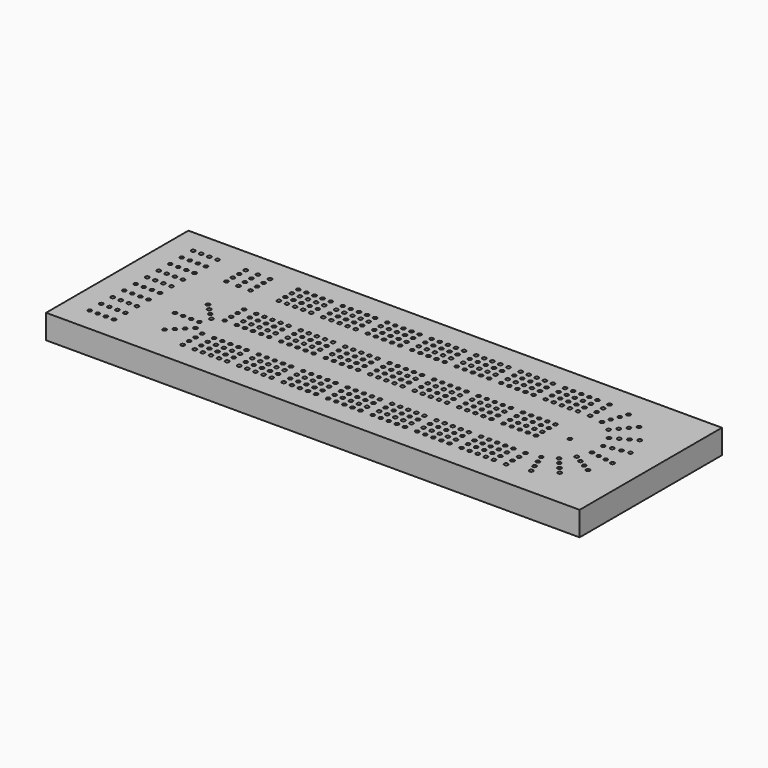
from build123d import *

# Parameters (mm, degrees)
F0_W     = 419.1
F0_H     = 139.7
F1_DEPTH = 19.05
F2_R     = 1.488281
F3_DEPTH = 12.7


with BuildPart() as f1:
    # F0 (on Top) → F1 (new body)
    with BuildSketch(Plane.XY):
        with Locations((209.55, 69.85)):
            Rectangle(F0_W, F0_H)
    extrude(amount=F1_DEPTH)

    # F2 (on face) → F3 (cut)
    with BuildSketch(Plane.XY.offset(19.05)):
        with BuildLine():
            ThreePointArc((20.538281, 120.65), (20.102374, 121.702374), (19.05, 122.138281))
            Line((19.05, 122.138281), (19.05, 120.65))
            Line((19.05, 120.65), (17.561719, 120.65))
            ThreePointArc((17.561719, 120.65), (19.05, 119.161719), (20.538281, 120.65))
        make_face()
        with BuildLine():
            Line((19.05, 120.65), (19.05, 122.138281))
            ThreePointArc((19.05, 122.138281), (17.997626, 121.702374), (17.561719, 120.65))
            Line((17.561719, 120.65), (19.05, 120.65))
        make_face()
        with Locations((19.05, 109.361111)):
            Circle(F2_R)
        with Locations((19.05, 98.072222)):
            Circle(F2_R)
        with Locations((19.05, 86.783333)):
            Circle(F2_R)
        with Locations((19.05, 75.494444)):
            Circle(F2_R)
        with Locations((19.05, 64.205556)):
            Circle(F2_R)
        with Locations((19.05, 52.916667)):
            Circle(F2_R)
        with Locations((19.05, 41.627778)):
            Circle(F2_R)
        with Locations((19.05, 30.338889)):
            Circle(F2_R)
        with Locations((19.05, 19.05)):
            Circle(F2_R)
        with Locations((25.4, 120.65)):
            Circle(F2_R)
        with Locations((25.4, 109.361111)):
            Circle(F2_R)
        with Locations((25.4, 98.072222)):
            Circle(F2_R)
        with Locations((25.4, 86.783333)):
            Circle(F2_R)
        with Locations((25.4, 75.494444)):
            Circle(F2_R)
        with Locations((25.4, 64.205556)):
            Circle(F2_R)
        with Locations((25.4, 52.916667)):
            Circle(F2_R)
        with Locations((25.4, 41.627778)):
            Circle(F2_R)
        with Locations((25.4, 30.338889)):
            Circle(F2_R)
        with Locations((25.4, 19.05)):
            Circle(F2_R)
        with Locations((31.75, 120.65)):
            Circle(F2_R)
        with Locations((31.75, 109.361111)):
            Circle(F2_R)
        with Locations((31.75, 98.072222)):
            Circle(F2_R)
        with Locations((31.75, 86.783333)):
            Circle(F2_R)
        with Locations((31.75, 75.494444)):
            Circle(F2_R)
        with Locations((31.75, 64.205556)):
            Circle(F2_R)
        with Locations((31.75, 52.916667)):
            Circle(F2_R)
        with Locations((31.75, 41.627778)):
            Circle(F2_R)
        with Locations((31.75, 30.338889)):
            Circle(F2_R)
        with Locations((31.75, 19.05)):
            Circle(F2_R)
        with Locations((38.1, 120.65)):
            Circle(F2_R)
        with Locations((38.1, 109.361111)):
            Circle(F2_R)
        with Locations((38.1, 98.072222)):
            Circle(F2_R)
        with Locations((38.1, 86.783333)):
            Circle(F2_R)
        with Locations((38.1, 75.494444)):
            Circle(F2_R)
        with Locations((38.1, 64.205556)):
            Circle(F2_R)
        with Locations((38.1, 52.916667)):
            Circle(F2_R)
        with Locations((38.1, 41.627778)):
            Circle(F2_R)
        with Locations((38.1, 30.338889)):
            Circle(F2_R)
        with Locations((38.1, 19.05)):
            Circle(F2_R)
        with Locations((60.325, 120.65)):
            Circle(F2_R)
        with Locations((60.325, 114.3)):
            Circle(F2_R)
        with Locations((60.325, 107.95)):
            Circle(F2_R)
        with Locations((60.325, 101.6)):
            Circle(F2_R)
        with Locations((69.85, 120.65)):
            Circle(F2_R)
        with Locations((69.85, 114.3)):
            Circle(F2_R)
        with Locations((69.85, 107.95)):
            Circle(F2_R)
        with Locations((69.85, 101.6)):
            Circle(F2_R)
        with Locations((79.375, 120.65)):
            Circle(F2_R)
        with Locations((79.375, 114.3)):
            Circle(F2_R)
        with Locations((79.375, 107.95)):
            Circle(F2_R)
        with Locations((79.375, 101.6)):
            Circle(F2_R)
        with Locations((101.6, 120.65)):
            Circle(F2_R)
        with Locations((101.6, 114.3)):
            Circle(F2_R)
        with Locations((101.6, 107.95)):
            Circle(F2_R)
        with Locations((101.6, 101.6)):
            Circle(F2_R)
        with Locations((107.95, 120.65)):
            Circle(F2_R)
        with Locations((107.95, 114.3)):
            Circle(F2_R)
        with Locations((107.95, 107.95)):
            Circle(F2_R)
        with Locations((107.95, 101.6)):
            Circle(F2_R)
        with Locations((114.3, 120.65)):
            Circle(F2_R)
        with Locations((114.3, 114.3)):
            Circle(F2_R)
        with Locations((114.3, 107.95)):
            Circle(F2_R)
        with Locations((114.3, 101.6)):
            Circle(F2_R)
        with Locations((120.65, 120.65)):
            Circle(F2_R)
        with Locations((120.65, 114.3)):
            Circle(F2_R)
        with Locations((120.65, 107.95)):
            Circle(F2_R)
        with Locations((120.65, 101.6)):
            Circle(F2_R)
        with Locations((127, 120.65)):
            Circle(F2_R)
        with Locations((127, 114.3)):
            Circle(F2_R)
        with Locations((127, 107.95)):
            Circle(F2_R)
        with Locations((127, 101.6)):
            Circle(F2_R)
        with Locations((149.225, 114.3)):
            Circle(F2_R)
        with Locations((136.525, 107.95)):
            Circle(F2_R)
        with Locations((161.925, 107.95)):
            Circle(F2_R)
        with Locations((149.225, 120.65)):
            Circle(F2_R)
        with Locations((161.925, 114.3)):
            Circle(F2_R)
        with Locations((161.925, 120.65)):
            Circle(F2_R)
        with Locations((142.875, 101.6)):
            Circle(F2_R)
        with Locations((155.575, 107.95)):
            Circle(F2_R)
        with Locations((142.875, 107.95)):
            Circle(F2_R)
        with Locations((155.575, 101.6)):
            Circle(F2_R)
        with Locations((155.575, 114.3)):
            Circle(F2_R)
        with Locations((149.225, 107.95)):
            Circle(F2_R)
        with Locations((149.225, 101.6)):
            Circle(F2_R)
        with Locations((161.925, 101.6)):
            Circle(F2_R)
        with Locations((136.525, 101.6)):
            Circle(F2_R)
        with Locations((155.575, 120.65)):
            Circle(F2_R)
        with Locations((142.875, 114.3)):
            Circle(F2_R)
        with Locations((136.525, 114.3)):
            Circle(F2_R)
        with Locations((142.875, 120.65)):
            Circle(F2_R)
        with Locations((136.525, 120.65)):
            Circle(F2_R)
        with Locations((184.15, 114.3)):
            Circle(F2_R)
        with Locations((171.45, 107.95)):
            Circle(F2_R)
        with Locations((196.85, 107.95)):
            Circle(F2_R)
        with Locations((184.15, 120.65)):
            Circle(F2_R)
        with Locations((196.85, 114.3)):
            Circle(F2_R)
        with Locations((196.85, 120.65)):
            Circle(F2_R)
        with Locations((177.8, 101.6)):
            Circle(F2_R)
        with Locations((190.5, 107.95)):
            Circle(F2_R)
        with Locations((177.8, 107.95)):
            Circle(F2_R)
        with Locations((190.5, 101.6)):
            Circle(F2_R)
        with Locations((190.5, 114.3)):
            Circle(F2_R)
        with Locations((184.15, 107.95)):
            Circle(F2_R)
        with Locations((184.15, 101.6)):
            Circle(F2_R)
        with Locations((196.85, 101.6)):
            Circle(F2_R)
        with Locations((171.45, 101.6)):
            Circle(F2_R)
        with Locations((190.5, 120.65)):
            Circle(F2_R)
        with Locations((177.8, 114.3)):
            Circle(F2_R)
        with Locations((171.45, 114.3)):
            Circle(F2_R)
        with Locations((177.8, 120.65)):
            Circle(F2_R)
        with Locations((171.45, 120.65)):
            Circle(F2_R)
        with Locations((219.075, 114.3)):
            Circle(F2_R)
        with Locations((206.375, 107.95)):
            Circle(F2_R)
        with Locations((231.775, 107.95)):
            Circle(F2_R)
        with Locations((219.075, 120.65)):
            Circle(F2_R)
        with Locations((231.775, 114.3)):
            Circle(F2_R)
        with Locations((231.775, 120.65)):
            Circle(F2_R)
        with Locations((212.725, 101.6)):
            Circle(F2_R)
        with Locations((225.425, 107.95)):
            Circle(F2_R)
        with Locations((212.725, 107.95)):
            Circle(F2_R)
        with Locations((225.425, 101.6)):
            Circle(F2_R)
        with Locations((225.425, 114.3)):
            Circle(F2_R)
        with Locations((219.075, 107.95)):
            Circle(F2_R)
        with Locations((219.075, 101.6)):
            Circle(F2_R)
        with Locations((231.775, 101.6)):
            Circle(F2_R)
        with Locations((206.375, 101.6)):
            Circle(F2_R)
        with Locations((225.425, 120.65)):
            Circle(F2_R)
        with Locations((212.725, 114.3)):
            Circle(F2_R)
        with Locations((206.375, 114.3)):
            Circle(F2_R)
        with Locations((212.725, 120.65)):
            Circle(F2_R)
        with Locations((206.375, 120.65)):
            Circle(F2_R)
        with Locations((254, 114.3)):
            Circle(F2_R)
        with Locations((241.3, 107.95)):
            Circle(F2_R)
        with Locations((266.7, 107.95)):
            Circle(F2_R)
        with Locations((254, 120.65)):
            Circle(F2_R)
        with Locations((266.7, 114.3)):
            Circle(F2_R)
        with Locations((266.7, 120.65)):
            Circle(F2_R)
        with Locations((247.65, 101.6)):
            Circle(F2_R)
        with Locations((260.35, 107.95)):
            Circle(F2_R)
        with Locations((247.65, 107.95)):
            Circle(F2_R)
        with Locations((260.35, 101.6)):
            Circle(F2_R)
        with Locations((260.35, 114.3)):
            Circle(F2_R)
        with Locations((254, 107.95)):
            Circle(F2_R)
        with Locations((254, 101.6)):
            Circle(F2_R)
        with Locations((266.7, 101.6)):
            Circle(F2_R)
        with Locations((241.3, 101.6)):
            Circle(F2_R)
        with Locations((260.35, 120.65)):
            Circle(F2_R)
        with Locations((247.65, 114.3)):
            Circle(F2_R)
        with Locations((241.3, 114.3)):
            Circle(F2_R)
        with Locations((247.65, 120.65)):
            Circle(F2_R)
        with Locations((241.3, 120.65)):
            Circle(F2_R)
        with Locations((288.925, 114.3)):
            Circle(F2_R)
        with Locations((276.225, 107.95)):
            Circle(F2_R)
        with Locations((301.625, 107.95)):
            Circle(F2_R)
        with Locations((288.925, 120.65)):
            Circle(F2_R)
        with Locations((301.625, 114.3)):
            Circle(F2_R)
        with Locations((301.625, 120.65)):
            Circle(F2_R)
        with Locations((282.575, 101.6)):
            Circle(F2_R)
        with Locations((295.275, 107.95)):
            Circle(F2_R)
        with Locations((282.575, 107.95)):
            Circle(F2_R)
        with Locations((295.275, 101.6)):
            Circle(F2_R)
        with Locations((295.275, 114.3)):
            Circle(F2_R)
        with Locations((288.925, 107.95)):
            Circle(F2_R)
        with Locations((288.925, 101.6)):
            Circle(F2_R)
        with Locations((301.625, 101.6)):
            Circle(F2_R)
        with Locations((276.225, 101.6)):
            Circle(F2_R)
        with Locations((295.275, 120.65)):
            Circle(F2_R)
        with Locations((282.575, 114.3)):
            Circle(F2_R)
        with Locations((276.225, 114.3)):
            Circle(F2_R)
        with Locations((282.575, 120.65)):
            Circle(F2_R)
        with Locations((276.225, 120.65)):
            Circle(F2_R)
        with Locations((323.85, 114.3)):
            Circle(F2_R)
        with Locations((311.15, 107.95)):
            Circle(F2_R)
        with Locations((336.55, 107.95)):
            Circle(F2_R)
        with Locations((323.85, 120.65)):
            Circle(F2_R)
        with Locations((336.55, 114.3)):
            Circle(F2_R)
        with Locations((336.55, 120.65)):
            Circle(F2_R)
        with Locations((317.5, 101.6)):
            Circle(F2_R)
        with Locations((330.2, 107.95)):
            Circle(F2_R)
        with Locations((317.5, 107.95)):
            Circle(F2_R)
        with Locations((330.2, 101.6)):
            Circle(F2_R)
        with Locations((330.2, 114.3)):
            Circle(F2_R)
        with Locations((323.85, 107.95)):
            Circle(F2_R)
        with Locations((323.85, 101.6)):
            Circle(F2_R)
        with Locations((336.55, 101.6)):
            Circle(F2_R)
        with Locations((311.15, 101.6)):
            Circle(F2_R)
        with Locations((330.2, 120.65)):
            Circle(F2_R)
        with Locations((317.5, 114.3)):
            Circle(F2_R)
        with Locations((311.15, 114.3)):
            Circle(F2_R)
        with Locations((317.5, 120.65)):
            Circle(F2_R)
        with Locations((311.15, 120.65)):
            Circle(F2_R)
        with Locations((219.075, 66.675)):
            Circle(F2_R)
        with Locations((171.45, 66.675)):
            Circle(F2_R)
        with Locations((155.575, 66.675)):
            Circle(F2_R)
        with Locations((317.5, 66.675)):
            Circle(F2_R)
        with Locations((276.225, 60.325)):
            Circle(F2_R)
        with Locations((266.7, 79.375)):
            Circle(F2_R)
        with Locations((155.575, 60.325)):
            Circle(F2_R)
        with Locations((120.65, 60.325)):
            Circle(F2_R)
        with Locations((260.35, 66.675)):
            Circle(F2_R)
        with Locations((231.775, 60.325)):
            Circle(F2_R)
        with Locations((184.15, 79.375)):
            Circle(F2_R)
        with Locations((330.2, 73.025)):
            Circle(F2_R)
        with Locations((282.575, 73.025)):
            Circle(F2_R)
        with Locations((288.925, 73.025)):
            Circle(F2_R)
        with Locations((120.65, 66.675)):
            Circle(F2_R)
        with Locations((219.075, 60.325)):
            Circle(F2_R)
        with Locations((196.85, 66.675)):
            Circle(F2_R)
        with Locations((142.875, 66.675)):
            Circle(F2_R)
        with Locations((330.2, 60.325)):
            Circle(F2_R)
        with Locations((295.275, 79.375)):
            Circle(F2_R)
        with Locations((155.575, 73.025)):
            Circle(F2_R)
        with Locations((206.375, 60.325)):
            Circle(F2_R)
        with Locations((196.85, 73.025)):
            Circle(F2_R)
        with Locations((323.85, 66.675)):
            Circle(F2_R)
        with Locations((276.225, 66.675)):
            Circle(F2_R)
        with Locations((149.225, 66.675)):
            Circle(F2_R)
        with Locations((260.35, 60.325)):
            Circle(F2_R)
        with Locations((196.85, 79.375)):
            Circle(F2_R)
        with Locations((323.85, 60.325)):
            Circle(F2_R)
        with Locations((301.625, 66.675)):
            Circle(F2_R)
        with Locations((149.225, 60.325)):
            Circle(F2_R)
        with Locations((127, 66.675)):
            Circle(F2_R)
        with Locations((101.6, 66.675)):
            Circle(F2_R)
        with Locations((177.8, 60.325)):
            Circle(F2_R)
        with Locations((336.55, 60.325)):
            Circle(F2_R)
        with Locations((288.925, 79.375)):
            Circle(F2_R)
        with Locations((254, 66.675)):
            Circle(F2_R)
        with Locations((206.375, 66.675)):
            Circle(F2_R)
        with Locations((190.5, 66.675)):
            Circle(F2_R)
        with Locations((311.15, 60.325)):
            Circle(F2_R)
        with Locations((161.925, 60.325)):
            Circle(F2_R)
        with Locations((127, 60.325)):
            Circle(F2_R)
        with Locations((101.6, 60.325)):
            Circle(F2_R)
        with Locations((330.2, 79.375)):
            Circle(F2_R)
        with Locations((301.625, 79.375)):
            Circle(F2_R)
        with Locations((136.525, 60.325)):
            Circle(F2_R)
        with Locations((254, 60.325)):
            Circle(F2_R)
        with Locations((231.775, 66.675)):
            Circle(F2_R)
        with Locations((177.8, 66.675)):
            Circle(F2_R)
        with Locations((155.575, 79.375)):
            Circle(F2_R)
        with Locations((266.7, 60.325)):
            Circle(F2_R)
        with Locations((219.075, 79.375)):
            Circle(F2_R)
        with Locations((190.5, 60.325)):
            Circle(F2_R)
        with Locations((282.575, 60.325)):
            Circle(F2_R)
        with Locations((241.3, 60.325)):
            Circle(F2_R)
        with Locations((231.775, 73.025)):
            Circle(F2_R)
        with Locations((190.5, 73.025)):
            Circle(F2_R)
        with Locations((311.15, 66.675)):
            Circle(F2_R)
        with Locations((295.275, 66.675)):
            Circle(F2_R)
        with Locations((136.525, 66.675)):
            Circle(F2_R)
        with Locations((107.95, 60.325)):
            Circle(F2_R)
        with Locations((260.35, 79.375)):
            Circle(F2_R)
        with Locations((231.775, 79.375)):
            Circle(F2_R)
        with Locations((184.15, 66.675)):
            Circle(F2_R)
        with Locations((336.55, 66.675)):
            Circle(F2_R)
        with Locations((282.575, 66.675)):
            Circle(F2_R)
        with Locations((161.925, 66.675)):
            Circle(F2_R)
        with Locations((212.725, 60.325)):
            Circle(F2_R)
        with Locations((184.15, 60.325)):
            Circle(F2_R)
        with Locations((323.85, 79.375)):
            Circle(F2_R)
        with Locations((225.425, 66.675)):
            Circle(F2_R)
        with Locations((196.85, 60.325)):
            Circle(F2_R)
        with Locations((149.225, 79.375)):
            Circle(F2_R)
        with Locations((336.55, 73.025)):
            Circle(F2_R)
        with Locations((295.275, 73.025)):
            Circle(F2_R)
        with Locations((241.3, 66.675)):
            Circle(F2_R)
        with Locations((114.3, 66.675)):
            Circle(F2_R)
        with Locations((212.725, 66.675)):
            Circle(F2_R)
        with Locations((171.45, 60.325)):
            Circle(F2_R)
        with Locations((336.55, 79.375)):
            Circle(F2_R)
        with Locations((288.925, 66.675)):
            Circle(F2_R)
        with Locations((266.7, 66.675)):
            Circle(F2_R)
        with Locations((190.5, 79.375)):
            Circle(F2_R)
        with Locations((161.925, 79.375)):
            Circle(F2_R)
        with Locations((317.5, 60.325)):
            Circle(F2_R)
        with Locations((288.925, 60.325)):
            Circle(F2_R)
        with Locations((254, 79.375)):
            Circle(F2_R)
        with Locations((330.2, 66.675)):
            Circle(F2_R)
        with Locations((301.625, 60.325)):
            Circle(F2_R)
        with Locations((266.7, 73.025)):
            Circle(F2_R)
        with Locations((120.65, 73.025)):
            Circle(F2_R)
        with Locations((171.45, 73.025)):
            Circle(F2_R)
        with Locations((247.65, 60.325)):
            Circle(F2_R)
        with Locations((127, 79.375)):
            Circle(F2_R)
        with Locations((247.65, 66.675)):
            Circle(F2_R)
        with Locations((127, 73.025)):
            Circle(F2_R)
        with Locations((225.425, 79.375)):
            Circle(F2_R)
        with Locations((282.575, 79.375)):
            Circle(F2_R)
        with Locations((260.35, 73.025)):
            Circle(F2_R)
        with Locations((212.725, 73.025)):
            Circle(F2_R)
        with Locations((219.075, 73.025)):
            Circle(F2_R)
        with Locations((301.625, 73.025)):
            Circle(F2_R)
        with Locations((212.725, 79.375)):
            Circle(F2_R)
        with Locations((323.85, 73.025)):
            Circle(F2_R)
        with Locations((142.875, 73.025)):
            Circle(F2_R)
        with Locations((149.225, 73.025)):
            Circle(F2_R)
        with Locations((107.95, 66.675)):
            Circle(F2_R)
        with Locations((247.65, 73.025)):
            Circle(F2_R)
        with Locations((254, 73.025)):
            Circle(F2_R)
        with Locations((295.275, 60.325)):
            Circle(F2_R)
        with Locations((114.3, 73.025)):
            Circle(F2_R)
        with Locations((241.3, 73.025)):
            Circle(F2_R)
        with Locations((161.925, 73.025)):
            Circle(F2_R)
        with Locations((114.3, 60.325)):
            Circle(F2_R)
        with Locations((225.425, 60.325)):
            Circle(F2_R)
        with Locations((120.65, 79.375)):
            Circle(F2_R)
        with Locations((225.425, 73.025)):
            Circle(F2_R)
        with Locations((177.8, 73.025)):
            Circle(F2_R)
        with Locations((184.15, 73.025)):
            Circle(F2_R)
        with Locations((142.875, 60.325)):
            Circle(F2_R)
        with Locations((177.8, 79.375)):
            Circle(F2_R)
        with Locations((171.45, 79.375)):
            Circle(F2_R)
        with Locations((276.225, 73.025)):
            Circle(F2_R)
        with Locations((101.6, 73.025)):
            Circle(F2_R)
        with Locations((206.375, 73.025)):
            Circle(F2_R)
        with Locations((276.225, 79.375)):
            Circle(F2_R)
        with Locations((107.95, 79.375)):
            Circle(F2_R)
        with Locations((107.95, 73.025)):
            Circle(F2_R)
        with Locations((317.5, 73.025)):
            Circle(F2_R)
        with Locations((206.375, 79.375)):
            Circle(F2_R)
        with Locations((311.15, 73.025)):
            Circle(F2_R)
        with Locations((136.525, 73.025)):
            Circle(F2_R)
        with Locations((317.5, 79.375)):
            Circle(F2_R)
        with Locations((142.875, 79.375)):
            Circle(F2_R)
        with Locations((114.3, 79.375)):
            Circle(F2_R)
        with Locations((311.15, 79.375)):
            Circle(F2_R)
        with Locations((247.65, 79.375)):
            Circle(F2_R)
        with Locations((241.3, 79.375)):
            Circle(F2_R)
        with Locations((101.6, 79.375)):
            Circle(F2_R)
        with Locations((136.525, 79.375)):
            Circle(F2_R)
        with Locations((219.075, 25.4)):
            Circle(F2_R)
        with Locations((171.45, 25.4)):
            Circle(F2_R)
        with Locations((155.575, 25.4)):
            Circle(F2_R)
        with Locations((317.5, 25.4)):
            Circle(F2_R)
        with Locations((276.225, 19.05)):
            Circle(F2_R)
        with Locations((266.7, 38.1)):
            Circle(F2_R)
        with Locations((155.575, 19.05)):
            Circle(F2_R)
        with Locations((120.65, 19.05)):
            Circle(F2_R)
        with Locations((260.35, 25.4)):
            Circle(F2_R)
        with Locations((231.775, 19.05)):
            Circle(F2_R)
        with Locations((184.15, 38.1)):
            Circle(F2_R)
        with Locations((330.2, 31.75)):
            Circle(F2_R)
        with Locations((282.575, 31.75)):
            Circle(F2_R)
        with Locations((288.925, 31.75)):
            Circle(F2_R)
        with Locations((120.65, 25.4)):
            Circle(F2_R)
        with Locations((219.075, 19.05)):
            Circle(F2_R)
        with Locations((196.85, 25.4)):
            Circle(F2_R)
        with Locations((142.875, 25.4)):
            Circle(F2_R)
        with Locations((330.2, 19.05)):
            Circle(F2_R)
        with Locations((295.275, 38.1)):
            Circle(F2_R)
        with Locations((155.575, 31.75)):
            Circle(F2_R)
        with Locations((206.375, 19.05)):
            Circle(F2_R)
        with Locations((196.85, 31.75)):
            Circle(F2_R)
        with Locations((323.85, 25.4)):
            Circle(F2_R)
        with Locations((276.225, 25.4)):
            Circle(F2_R)
        with Locations((149.225, 25.4)):
            Circle(F2_R)
        with Locations((260.35, 19.05)):
            Circle(F2_R)
        with Locations((196.85, 38.1)):
            Circle(F2_R)
        with Locations((323.85, 19.05)):
            Circle(F2_R)
        with Locations((301.625, 25.4)):
            Circle(F2_R)
        with Locations((149.225, 19.05)):
            Circle(F2_R)
        with Locations((127, 25.4)):
            Circle(F2_R)
        with Locations((101.6, 25.4)):
            Circle(F2_R)
        with Locations((177.8, 19.05)):
            Circle(F2_R)
        with Locations((336.55, 19.05)):
            Circle(F2_R)
        with Locations((288.925, 38.1)):
            Circle(F2_R)
        with Locations((254, 25.4)):
            Circle(F2_R)
        with Locations((206.375, 25.4)):
            Circle(F2_R)
        with Locations((190.5, 25.4)):
            Circle(F2_R)
        with Locations((311.15, 19.05)):
            Circle(F2_R)
        with Locations((161.925, 19.05)):
            Circle(F2_R)
        with Locations((127, 19.05)):
            Circle(F2_R)
        with Locations((101.6, 19.05)):
            Circle(F2_R)
        with Locations((330.2, 38.1)):
            Circle(F2_R)
        with Locations((301.625, 38.1)):
            Circle(F2_R)
        with Locations((136.525, 19.05)):
            Circle(F2_R)
        with Locations((254, 19.05)):
            Circle(F2_R)
        with Locations((231.775, 25.4)):
            Circle(F2_R)
        with Locations((177.8, 25.4)):
            Circle(F2_R)
        with Locations((155.575, 38.1)):
            Circle(F2_R)
        with Locations((266.7, 19.05)):
            Circle(F2_R)
        with Locations((219.075, 38.1)):
            Circle(F2_R)
        with Locations((190.5, 19.05)):
            Circle(F2_R)
        with Locations((282.575, 19.05)):
            Circle(F2_R)
        with Locations((241.3, 19.05)):
            Circle(F2_R)
        with Locations((231.775, 31.75)):
            Circle(F2_R)
        with Locations((190.5, 31.75)):
            Circle(F2_R)
        with Locations((311.15, 25.4)):
            Circle(F2_R)
        with Locations((295.275, 25.4)):
            Circle(F2_R)
        with Locations((136.525, 25.4)):
            Circle(F2_R)
        with Locations((107.95, 19.05)):
            Circle(F2_R)
        with Locations((260.35, 38.1)):
            Circle(F2_R)
        with Locations((231.775, 38.1)):
            Circle(F2_R)
        with Locations((184.15, 25.4)):
            Circle(F2_R)
        with Locations((336.55, 25.4)):
            Circle(F2_R)
        with Locations((282.575, 25.4)):
            Circle(F2_R)
        with Locations((161.925, 25.4)):
            Circle(F2_R)
        with Locations((212.725, 19.05)):
            Circle(F2_R)
        with Locations((184.15, 19.05)):
            Circle(F2_R)
        with Locations((323.85, 38.1)):
            Circle(F2_R)
        with Locations((225.425, 25.4)):
            Circle(F2_R)
        with Locations((196.85, 19.05)):
            Circle(F2_R)
        with Locations((149.225, 38.1)):
            Circle(F2_R)
        with Locations((336.55, 31.75)):
            Circle(F2_R)
        with Locations((295.275, 31.75)):
            Circle(F2_R)
        with Locations((241.3, 25.4)):
            Circle(F2_R)
        with Locations((114.3, 25.4)):
            Circle(F2_R)
        with Locations((212.725, 25.4)):
            Circle(F2_R)
        with Locations((171.45, 19.05)):
            Circle(F2_R)
        with Locations((336.55, 38.1)):
            Circle(F2_R)
        with Locations((288.925, 25.4)):
            Circle(F2_R)
        with Locations((266.7, 25.4)):
            Circle(F2_R)
        with Locations((190.5, 38.1)):
            Circle(F2_R)
        with Locations((161.925, 38.1)):
            Circle(F2_R)
        with Locations((317.5, 19.05)):
            Circle(F2_R)
        with Locations((288.925, 19.05)):
            Circle(F2_R)
        with Locations((254, 38.1)):
            Circle(F2_R)
        with Locations((330.2, 25.4)):
            Circle(F2_R)
        with Locations((301.625, 19.05)):
            Circle(F2_R)
        with Locations((266.7, 31.75)):
            Circle(F2_R)
        with Locations((120.65, 31.75)):
            Circle(F2_R)
        with Locations((171.45, 31.75)):
            Circle(F2_R)
        with Locations((247.65, 19.05)):
            Circle(F2_R)
        with Locations((127, 38.1)):
            Circle(F2_R)
        with Locations((247.65, 25.4)):
            Circle(F2_R)
        with Locations((127, 31.75)):
            Circle(F2_R)
        with Locations((225.425, 38.1)):
            Circle(F2_R)
        with Locations((282.575, 38.1)):
            Circle(F2_R)
        with Locations((260.35, 31.75)):
            Circle(F2_R)
        with Locations((212.725, 31.75)):
            Circle(F2_R)
        with Locations((219.075, 31.75)):
            Circle(F2_R)
        with Locations((301.625, 31.75)):
            Circle(F2_R)
        with Locations((212.725, 38.1)):
            Circle(F2_R)
        with Locations((323.85, 31.75)):
            Circle(F2_R)
        with Locations((142.875, 31.75)):
            Circle(F2_R)
        with Locations((149.225, 31.75)):
            Circle(F2_R)
        with Locations((107.95, 25.4)):
            Circle(F2_R)
        with Locations((247.65, 31.75)):
            Circle(F2_R)
        with Locations((254, 31.75)):
            Circle(F2_R)
        with Locations((295.275, 19.05)):
            Circle(F2_R)
        with Locations((114.3, 31.75)):
            Circle(F2_R)
        with Locations((241.3, 31.75)):
            Circle(F2_R)
        with Locations((161.925, 31.75)):
            Circle(F2_R)
        with Locations((114.3, 19.05)):
            Circle(F2_R)
        with Locations((225.425, 19.05)):
            Circle(F2_R)
        with Locations((120.65, 38.1)):
            Circle(F2_R)
        with Locations((225.425, 31.75)):
            Circle(F2_R)
        with Locations((177.8, 31.75)):
            Circle(F2_R)
        with Locations((184.15, 31.75)):
            Circle(F2_R)
        with Locations((142.875, 19.05)):
            Circle(F2_R)
        with Locations((177.8, 38.1)):
            Circle(F2_R)
        with Locations((171.45, 38.1)):
            Circle(F2_R)
        with Locations((276.225, 31.75)):
            Circle(F2_R)
        with Locations((101.6, 31.75)):
            Circle(F2_R)
        with Locations((206.375, 31.75)):
            Circle(F2_R)
        with Locations((276.225, 38.1)):
            Circle(F2_R)
        with Locations((107.95, 38.1)):
            Circle(F2_R)
        with Locations((107.95, 31.75)):
            Circle(F2_R)
        with Locations((317.5, 31.75)):
            Circle(F2_R)
        with Locations((206.375, 38.1)):
            Circle(F2_R)
        with Locations((311.15, 31.75)):
            Circle(F2_R)
        with Locations((136.525, 31.75)):
            Circle(F2_R)
        with Locations((317.5, 38.1)):
            Circle(F2_R)
        with Locations((142.875, 38.1)):
            Circle(F2_R)
        with Locations((114.3, 38.1)):
            Circle(F2_R)
        with Locations((311.15, 38.1)):
            Circle(F2_R)
        with Locations((247.65, 38.1)):
            Circle(F2_R)
        with Locations((241.3, 38.1)):
            Circle(F2_R)
        with Locations((101.6, 38.1)):
            Circle(F2_R)
        with Locations((136.525, 38.1)):
            Circle(F2_R)
        with BuildLine():
            ThreePointArc((346.075, 119.161719), (347.127374, 119.597626), (347.563281, 120.65))
            ThreePointArc((347.563281, 120.65), (345.022626, 121.702374), (346.075, 119.161719))
        make_face()
        with BuildLine():
            ThreePointArc((357.088281, 69.85), (355.6, 71.338281), (354.111719, 69.85))
            Line((354.111719, 69.85), (357.088281, 69.85))
        make_face()
        with BuildLine():
            Line((357.088281, 69.85), (354.111719, 69.85))
            ThreePointArc((354.111719, 69.85), (355.6, 68.361719), (357.088281, 69.85))
        make_face()
        with BuildLine():
            ThreePointArc((347.563281, 19.05), (347.127374, 20.102374), (346.075, 20.538281))
            Line((346.075, 20.538281), (346.075, 17.561719))
            ThreePointArc((346.075, 17.561719), (347.127374, 17.997626), (347.563281, 19.05))
        make_face()
        with BuildLine():
            Line((346.075, 17.561719), (346.075, 20.538281))
            ThreePointArc((346.075, 20.538281), (344.586719, 19.05), (346.075, 17.561719))
        make_face()
        with BuildLine():
            ThreePointArc((347.563281, 25.4), (347.127374, 26.452374), (346.075, 26.888281))
            Line((346.075, 26.888281), (346.075, 23.911719))
            ThreePointArc((346.075, 23.911719), (347.127374, 24.347626), (347.563281, 25.4))
        make_face()
        with BuildLine():
            Line((346.075, 23.911719), (346.075, 26.888281))
            ThreePointArc((346.075, 26.888281), (344.586719, 25.4), (346.075, 23.911719))
        make_face()
        with BuildLine():
            ThreePointArc((347.563281, 31.75), (347.127374, 32.802374), (346.075, 33.238281))
            Line((346.075, 33.238281), (346.075, 30.261719))
            ThreePointArc((346.075, 30.261719), (347.127374, 30.697626), (347.563281, 31.75))
        make_face()
        with BuildLine():
            Line((346.075, 30.261719), (346.075, 33.238281))
            ThreePointArc((346.075, 33.238281), (344.586719, 31.75), (346.075, 30.261719))
        make_face()
        with BuildLine():
            ThreePointArc((347.563281, 38.1), (347.127374, 39.152374), (346.075, 39.588281))
            Line((346.075, 39.588281), (346.075, 36.611719))
            ThreePointArc((346.075, 36.611719), (347.127374, 37.047626), (347.563281, 38.1))
        make_face()
        with BuildLine():
            Line((346.075, 36.611719), (346.075, 39.588281))
            ThreePointArc((346.075, 39.588281), (344.586719, 38.1), (346.075, 36.611719))
        make_face()
        with BuildLine():
            ThreePointArc((347.563281, 101.6), (347.127374, 102.652374), (346.075, 103.088281))
            Line((346.075, 103.088281), (346.075, 100.111719))
            ThreePointArc((346.075, 100.111719), (347.127374, 100.547626), (347.563281, 101.6))
        make_face()
        with BuildLine():
            Line((346.075, 100.111719), (346.075, 103.088281))
            ThreePointArc((346.075, 103.088281), (344.586719, 101.6), (346.075, 100.111719))
        make_face()
        with BuildLine():
            ThreePointArc((347.563281, 107.95), (347.127374, 109.002374), (346.075, 109.438281))
            Line((346.075, 109.438281), (346.075, 106.461719))
            ThreePointArc((346.075, 106.461719), (347.127374, 106.897626), (347.563281, 107.95))
        make_face()
        with BuildLine():
            Line((346.075, 106.461719), (346.075, 109.438281))
            ThreePointArc((346.075, 109.438281), (344.586719, 107.95), (346.075, 106.461719))
        make_face()
        with BuildLine():
            ThreePointArc((347.563281, 114.3), (347.127374, 115.352374), (346.075, 115.788281))
            Line((346.075, 115.788281), (346.075, 112.811719))
            ThreePointArc((346.075, 112.811719), (347.127374, 113.247626), (347.563281, 114.3))
        make_face()
        with BuildLine():
            Line((346.075, 112.811719), (346.075, 115.788281))
            ThreePointArc((346.075, 115.788281), (344.586719, 114.3), (346.075, 112.811719))
        make_face()
        with Locations((356.93414, 99.685241)):
            Circle(F2_R)
        with Locations((359.105967, 105.652289)):
            Circle(F2_R)
        with Locations((361.277795, 111.619337)):
            Circle(F2_R)
        with Locations((363.449623, 117.586385)):
            Circle(F2_R)
        with Locations((366.483507, 94.171911)):
            Circle(F2_R)
        with Locations((370.565208, 99.036293)):
            Circle(F2_R)
        with Locations((374.646909, 103.900675)):
            Circle(F2_R)
        with Locations((378.728611, 108.765058)):
            Circle(F2_R)
        with Locations((373.571307, 85.725)):
            Circle(F2_R)
        with Locations((379.070568, 88.9)):
            Circle(F2_R)
        with Locations((384.569829, 92.075)):
            Circle(F2_R)
        with Locations((390.069091, 95.25)):
            Circle(F2_R)
        with Locations((377.342646, 75.36333)):
            Circle(F2_R)
        with Locations((383.596175, 76.465996)):
            Circle(F2_R)
        with Locations((389.849705, 77.568661)):
            Circle(F2_R)
        with Locations((396.103234, 78.671327)):
            Circle(F2_R)
        with Locations((377.342646, 64.33667)):
            Circle(F2_R)
        with Locations((383.596175, 63.234004)):
            Circle(F2_R)
        with Locations((389.849705, 62.131339)):
            Circle(F2_R)
        with Locations((396.103234, 61.028673)):
            Circle(F2_R)
        with Locations((373.571307, 53.975)):
            Circle(F2_R)
        with Locations((379.070568, 50.8)):
            Circle(F2_R)
        with Locations((384.569829, 47.625)):
            Circle(F2_R)
        with Locations((390.069091, 44.45)):
            Circle(F2_R)
        with Locations((366.483507, 45.528089)):
            Circle(F2_R)
        with Locations((370.565208, 40.663707)):
            Circle(F2_R)
        with Locations((374.646909, 35.799325)):
            Circle(F2_R)
        with Locations((378.728611, 30.934942)):
            Circle(F2_R)
        with Locations((356.93414, 40.014759)):
            Circle(F2_R)
        with Locations((359.105967, 34.047711)):
            Circle(F2_R)
        with Locations((361.277795, 28.080663)):
            Circle(F2_R)
        with Locations((363.449623, 22.113615)):
            Circle(F2_R)
        with Locations((92.075, 19.05)):
            Circle(F2_R)
        with Locations((92.075, 25.4)):
            Circle(F2_R)
        with Locations((92.075, 31.75)):
            Circle(F2_R)
        with BuildLine():
            ThreePointArc((92.075, 39.588281), (91.022626, 37.047626), (93.563281, 38.1))
            ThreePointArc((93.563281, 38.1), (93.127374, 39.152374), (92.075, 39.588281))
        make_face()
        with Locations((84.217276, 41.354776)):
            Circle(F2_R)
        with Locations((79.727148, 36.864648)):
            Circle(F2_R)
        with Locations((75.23702, 32.37452)):
            Circle(F2_R)
        with Locations((70.746892, 27.884392)):
            Circle(F2_R)
        with Locations((80.9625, 49.2125)):
            Circle(F2_R)
        with Locations((74.6125, 49.2125)):
            Circle(F2_R)
        with Locations((68.2625, 49.2125)):
            Circle(F2_R)
        with Locations((61.9125, 49.2125)):
            Circle(F2_R)
        with Locations((84.217276, 57.070224)):
            Circle(F2_R)
        with Locations((79.727148, 61.560352)):
            Circle(F2_R)
        with Locations((75.23702, 66.05048)):
            Circle(F2_R)
        with Locations((70.746892, 70.540608)):
            Circle(F2_R)
        with Locations((92.075, 60.325)):
            Circle(F2_R)
        with Locations((92.075, 66.675)):
            Circle(F2_R)
        with Locations((92.075, 73.025)):
            Circle(F2_R)
        with Locations((92.075, 79.375)):
            Circle(F2_R)
    extrude(amount=-F3_DEPTH, mode=Mode.SUBTRACT)


solid = f1.part
